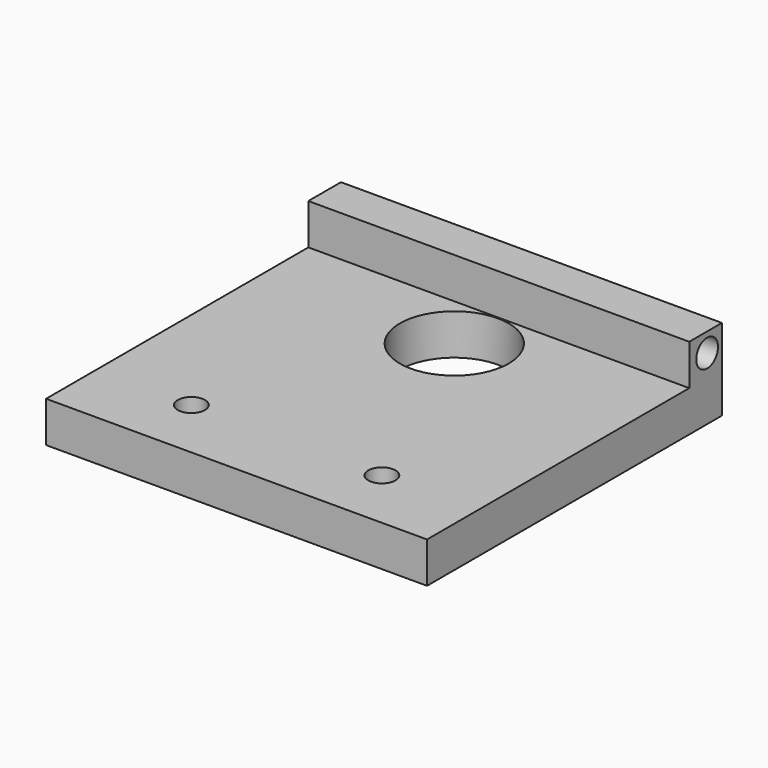
from build123d import *

# Parameters (mm, degrees)
F0_W     = 88.9
F0_H     = 82.55
F0_R     = 12.7
F2_DEPTH = 9.525
F1_W     = 9.525
F1_H     = 19.05
F3_DEPTH = 44.45
F4_R     = 3.175
F5_DEPTH = 25.4
F6_R     = 2.0432827377
F7_DEPTH = 19.05
F8_R     = 3.175
F9_DEPTH = 19.051


with BuildPart() as f2:
    # F0 (on Top) → F2 (new body)
    with BuildSketch(Plane.XY):
        Rectangle(F0_W, F0_H)
        with Locations((0, 22.225)):
            Circle(F0_R, mode=Mode.SUBTRACT)
    extrude(amount=F2_DEPTH)

    # F1 (on Right) → F3 (join, symmetric)
    with BuildSketch(Plane.YZ):
        with Locations((39.9805786431, 9.525)):
            Rectangle(F1_W, F1_H)
    extrude(amount=F3_DEPTH, both=True)

    # F4 (on face) → F5 (cut)
    with BuildSketch(Plane.YZ.offset(44.45)):
        with Locations((40.4250786431, 14.605)):
            Circle(F4_R)
    extrude(amount=-F5_DEPTH, mode=Mode.SUBTRACT)

    # F6 (on face) → F7 (cut)
    with BuildSketch(Plane(origin=(-44.45, 0, 0), x_dir=(0, -1, 0), z_dir=(-1, 0, 0))):
        with Locations((-40.5182726681, 16.0620938987)):
            Circle(F6_R)
    extrude(amount=-F7_DEPTH, mode=Mode.SUBTRACT)

    # F8 (on face) → F9 (cut, through all)
    with BuildSketch(Plane(origin=(0, 0, 0), x_dir=(1, 0, 0), z_dir=(0, 0, -1))):
        with Locations((22.2250018269, 26.67)):
            Circle(F8_R)
        with Locations((-22.225, 26.67)):
            Circle(F8_R)
    extrude(amount=-F9_DEPTH, mode=Mode.SUBTRACT)


solid = f2.part
